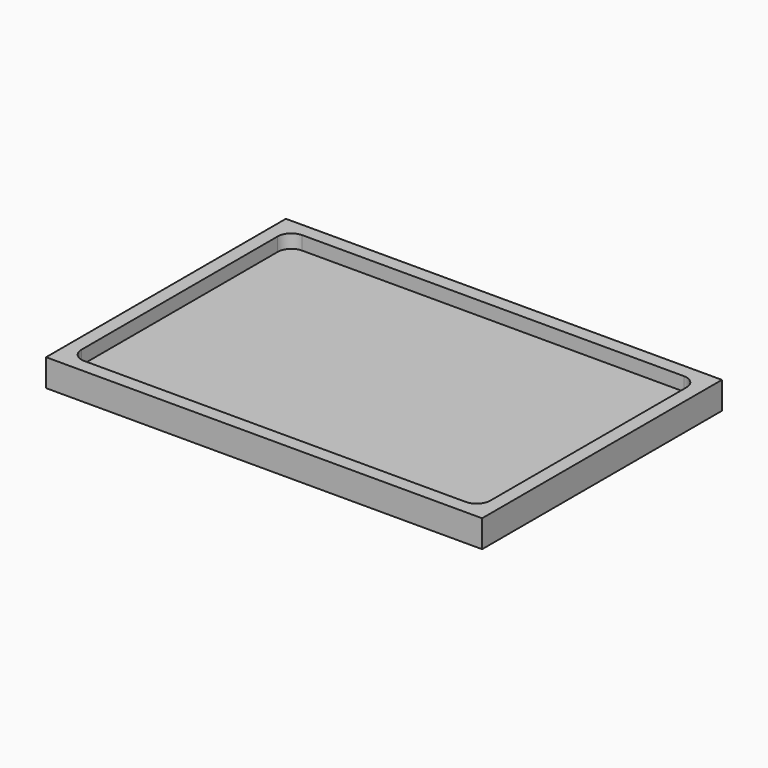
from build123d import *

# Parameters (mm, degrees)
F0_W     = 160
F0_H     = 110
F1_DEPTH = 10
F2_START = -5
F2_DEPTH = 5


with BuildPart() as f1:
    # F0 (on Top) → F1 (new body)
    with BuildSketch(Plane.XY):
        Rectangle(F0_W, F0_H)
        with BuildLine():
            ThreePointArc((-75, 45), (-73.5355339059, 48.5355339059), (-70, 50))
            Line((-70, 50), (70, 50))
            ThreePointArc((70, 50), (73.5355339059, 48.5355339059), (75, 45))
            Line((75, 45), (75, -45))
            ThreePointArc((75, -45), (73.5355339059, -48.5355339059), (70, -50))
            Line((70, -50), (-70, -50))
            ThreePointArc((-70, -50), (-73.5355339059, -48.5355339059), (-75, -45))
            Line((-75, -45), (-75, 45))
        make_face(mode=Mode.SUBTRACT)
    extrude(amount=-F1_DEPTH)

    # F0 (on Top) → F2 (join)
    with BuildSketch(Plane.XY.offset(F2_START)):
        Rectangle(F0_W, F0_H)
        with BuildLine():
            ThreePointArc((-75, 45), (-73.5355339059, 48.5355339059), (-70, 50))
            Line((-70, 50), (70, 50))
            ThreePointArc((70, 50), (73.5355339059, 48.5355339059), (75, 45))
            Line((75, 45), (75, -45))
            ThreePointArc((75, -45), (73.5355339059, -48.5355339059), (70, -50))
            Line((70, -50), (-70, -50))
            ThreePointArc((-70, -50), (-73.5355339059, -48.5355339059), (-75, -45))
            Line((-75, -45), (-75, 45))
        make_face(mode=Mode.SUBTRACT)
        with BuildLine():
            Line((70, 50), (-70, 50))
            ThreePointArc((-70, 50), (-73.5355339059, 48.5355339059), (-75, 45))
            Line((-75, 45), (-75, -45))
            ThreePointArc((-75, -45), (-73.5355339059, -48.5355339059), (-70, -50))
            Line((-70, -50), (70, -50))
            ThreePointArc((70, -50), (73.5355339059, -48.5355339059), (75, -45))
            Line((75, -45), (75, 45))
            ThreePointArc((75, 45), (73.5355339059, 48.5355339059), (70, 50))
        make_face()
    extrude(amount=-F2_DEPTH)


solid = f1.part
